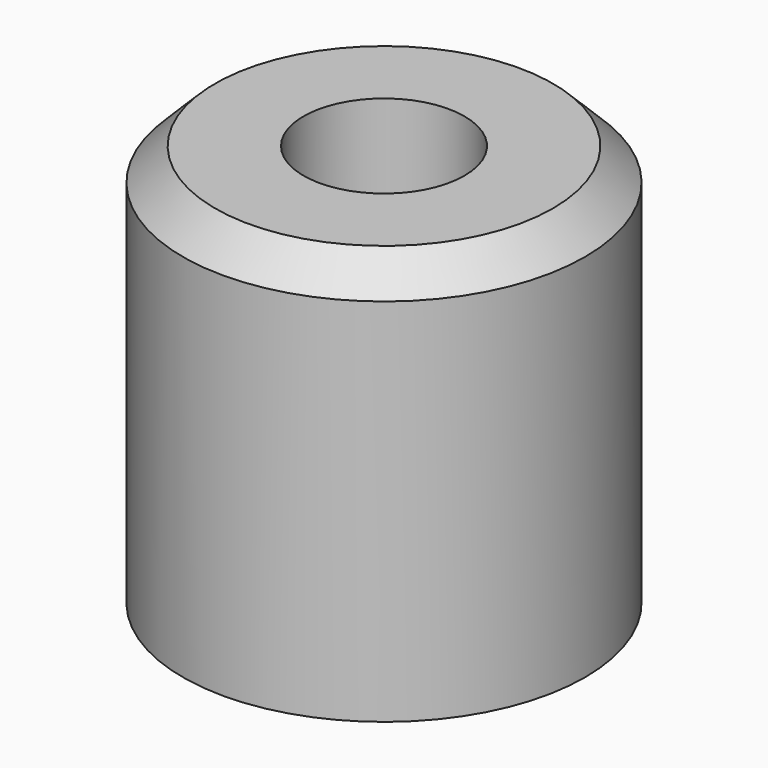
from build123d import *

# Parameters (mm, degrees)
SKETCH_R     = 2.5
SKETCH_R_2   = 1
PAD_DEPTH    = 5
CHAMFER_SIZE = 0.4


with BuildPart() as part:
    # Sketch → Pad (new body)
    with BuildSketch(Plane.XY):
        Circle(SKETCH_R)
        Circle(SKETCH_R_2, mode=Mode.SUBTRACT)
    extrude(amount=PAD_DEPTH)

    # Chamfer
    chamfer_edges = [part.edges().sort_by_distance(p)[0] for p in [
        (-2.5, 0, 5),
    ]]
    chamfer(chamfer_edges, length=CHAMFER_SIZE)


solid = part.part
